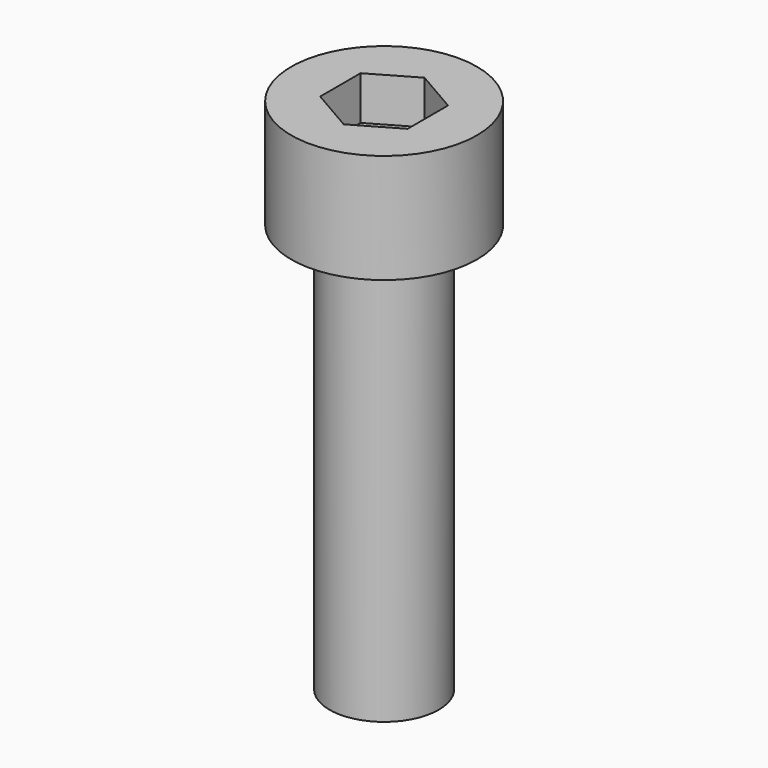
from build123d import *

# Parameters (mm, degrees)
F0_R      = 4.25
F1_DEPTH  = 5
F3_DEPTH  = 2
F4_R      = 2.5
F5_DEPTH  = 40
F5_FACE_R = 2.5
F6_DEPTH  = 22.7
F7_DEPTH  = 21.3


with BuildPart() as f1:
    # F0 (on Top) → F1 (new body)
    with BuildSketch(Plane.XY):
        Circle(F0_R)
    extrude(amount=F1_DEPTH)

    # F2 (on face) → F3 (cut)
    with BuildSketch(Plane.XY.offset(5)):
        Polygon((2, -1.154701), (2, 1.154701), (0, 2.309401), (-2, 1.154701), (-2, -1.154701), (0, -2.309401), align=None)
    extrude(amount=-F3_DEPTH, mode=Mode.SUBTRACT)

    # F4 (on Top) → F5 (join)
    with BuildSketch(Plane.XY):
        Circle(F4_R)
    extrude(amount=-F5_DEPTH)

    # F5_face (on face) → F6 (join)
    with BuildSketch(Plane(origin=(0, 0, -40), x_dir=(1, 0, 0), z_dir=(0, 0, -1))):
        Circle(F5_FACE_R)
    extrude(amount=-F6_DEPTH)

    # F5_face (on face) → F7 (cut)
    with BuildSketch(Plane(origin=(0, 0, -40), x_dir=(1, 0, 0), z_dir=(0, 0, -1))):
        Circle(F5_FACE_R)
    extrude(amount=-F7_DEPTH, mode=Mode.SUBTRACT)


solid = f1.part
